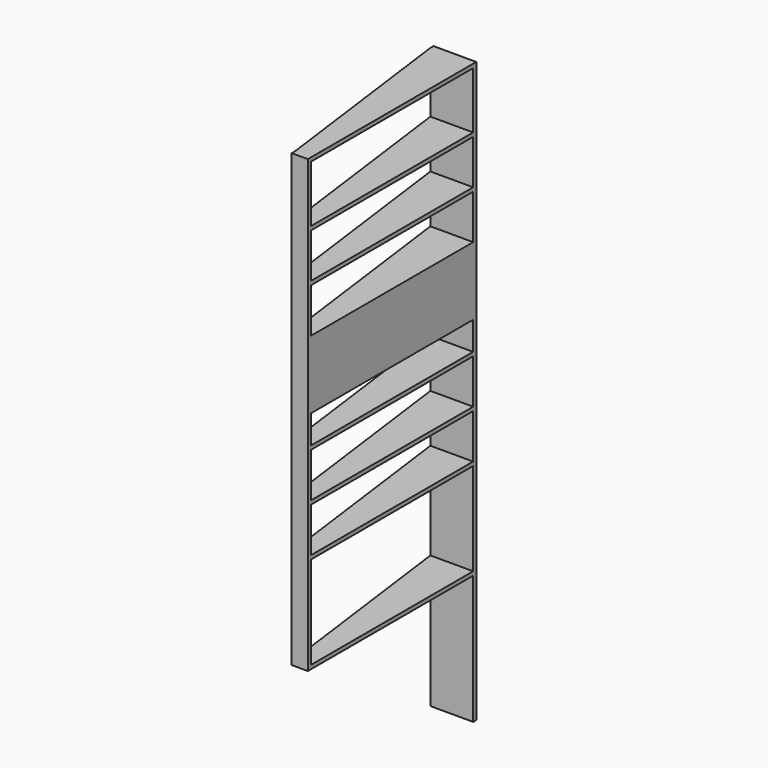
from build123d import *

# Parameters (mm, degrees)
F0_W     = 133
F0_H     = 1800
F2_DEPTH = 12
F3_W     = 133
F3_H     = 12
F3_W_2   = 12
F3_H_2   = 188
F4_DEPTH = 630
F5_DEPTH = 1800.001
F6_START = 400
F1_W     = 50
F1_H     = 12
F6_DEPTH = 1400


with BuildPart() as f2:
    # F0 (on Front) → F2 (new body)
    with BuildSketch(Plane.XZ):
        with Locations((-66.5, 900)):
            Rectangle(F0_W, F0_H)
        with BuildLine():
            Line((-30, 1150), (-103, 1150))
            ThreePointArc((-103, 1150), (-110.0710678119, 1152.9289321881), (-113, 1160))
            Line((-113, 1160), (-113, 1240))
            ThreePointArc((-113, 1240), (-110.0710678119, 1247.0710678119), (-103, 1250))
            Line((-103, 1250), (-30, 1250))
            ThreePointArc((-30, 1250), (-22.9289321881, 1247.0710678119), (-20, 1240))
            Line((-20, 1240), (-20, 1160))
            ThreePointArc((-20, 1160), (-22.9289321881, 1152.9289321881), (-30, 1150))
        make_face(mode=Mode.SUBTRACT)
    extrude(amount=-F2_DEPTH)

    # F3 (on face) → F4 (join)
    with BuildSketch(Plane.XZ):
        with Locations((-66.5, 406)):
            Rectangle(F3_W, F3_H)
        with Locations((-66.5, 856)):
            Rectangle(F3_W, F3_H)
        with Locations((-66.5, 706)):
            Rectangle(F3_W, F3_H)
        with Locations((-66.5, 1006)):
            Rectangle(F3_W, F3_H)
        with Locations((-6, 1206)):
            Rectangle(F3_W_2, F3_H_2)
        Polygon((-12, 1300), (0, 1300), (0, 1312), (-133, 1312), (-133, 1300), align=None)
        Polygon((0, 1100), (0, 1112), (-12, 1112), (-133, 1112), (-133, 1100), align=None)
        with Locations((-66.5, 1456)):
            Rectangle(F3_W, F3_H)
        with Locations((-66.5, 1606)):
            Rectangle(F3_W, F3_H)
        with Locations((-66.5, 1794)):
            Rectangle(F3_W, F3_H)
    extrude(amount=F4_DEPTH)

    # F1 (on Top) → F5 (cut, through all)
    with BuildSketch(Plane.XY):
        Polygon((-50, -630), (-133, 0), (-133, -630), align=None)
    extrude(amount=F5_DEPTH, mode=Mode.SUBTRACT)

    # F1 (on Top) → F6 (join)
    with BuildSketch(Plane.XY.offset(F6_START)):
        with Locations((-25, -636)):
            Rectangle(F1_W, F1_H)
    extrude(amount=F6_DEPTH)


with BuildPart() as f7_1:
    # F7: copy of F2
    add(f2.part)


solid = f2.part
